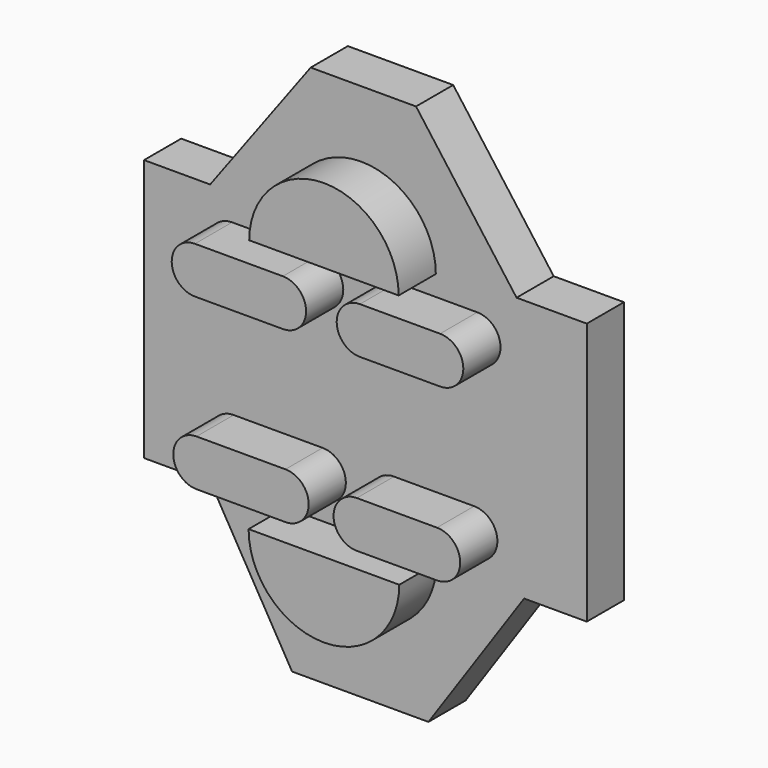
from build123d import *

# Parameters (mm, degrees)
F1_DEPTH = 25.4
F3_DEPTH = 12.7


with BuildPart() as f1:
    # F0 (on Front) → F1 (new body)
    with BuildSketch(Plane.XZ):
        with BuildLine():
            ThreePointArc((-35.261057, 31.470921), (-41.611057, 25.120921), (-35.261057, 18.770921))
            Line((-35.261057, 18.770921), (-11.227757, 18.770921))
            ThreePointArc((-11.227757, 18.770921), (-4.877757, 25.120921), (-11.227757, 31.470921))
            Line((-11.227757, 31.470921), (-35.261057, 31.470921))
        make_face()
        with BuildLine():
            Line((-20.42393, 37.137575), (20.42393, 37.137575))
            ThreePointArc((20.42393, 37.137575), (0, 57.561506), (-20.42393, 37.137575))
        make_face()
        with BuildLine():
            ThreePointArc((31.749442, 18.912296), (38.099442, 25.262296), (31.749442, 31.612296))
            Line((31.749442, 31.612296), (9.836733, 31.612296))
            ThreePointArc((9.836733, 31.612296), (3.486733, 25.262296), (9.836733, 18.912296))
            Line((9.836733, 18.912296), (31.749442, 18.912296))
        make_face()
        with BuildLine():
            ThreePointArc((-34.83694, -14.757845), (-41.18694, -21.107845), (-34.83694, -27.457845))
            Line((-34.83694, -27.457845), (-10.52089, -27.457845))
            ThreePointArc((-10.52089, -27.457845), (-4.17089, -21.107845), (-10.52089, -14.757845))
            Line((-10.52089, -14.757845), (-34.83694, -14.757845))
        make_face()
        with BuildLine():
            Line((20.597451, -32.417633), (-20.597451, -32.417633))
            ThreePointArc((-20.597451, -32.417633), (0, -53.015084), (20.597451, -32.417633))
        make_face()
        with BuildLine():
            ThreePointArc((30.901209, -28.023329), (37.251209, -21.673329), (30.901209, -15.323329))
            Line((30.901209, -15.323329), (8.9885, -15.323329))
            ThreePointArc((8.9885, -15.323329), (2.6385, -21.673329), (8.9885, -28.023329))
            Line((8.9885, -28.023329), (30.901209, -28.023329))
        make_face()
    extrude(amount=F1_DEPTH)


with BuildPart() as f3:
    # F2 (on Front) → F3 (new body)
    with BuildSketch(Plane.XZ):
        Polygon((61.691672, -33.092782), (61.691672, 38.62071), (42.492777, 38.62071), (-41.267082, 38.62071), (-59.336632, 38.62071), (-59.336632, -33.092782), (-41.078858, -33.092782), (44.563249, -33.092782), align=None)
        Polygon((-41.267082, 38.62071), (42.492777, 38.62071), (15.012011, 75.700924), (-13.786316, 75.700924), align=None)
        Polygon((18.400058, -71.302339), (44.563249, -33.092782), (-41.078858, -33.092782), (-18.868379, -71.302339), align=None)
    extrude(amount=F3_DEPTH)


solid = Compound([f1.part, f3.part])
